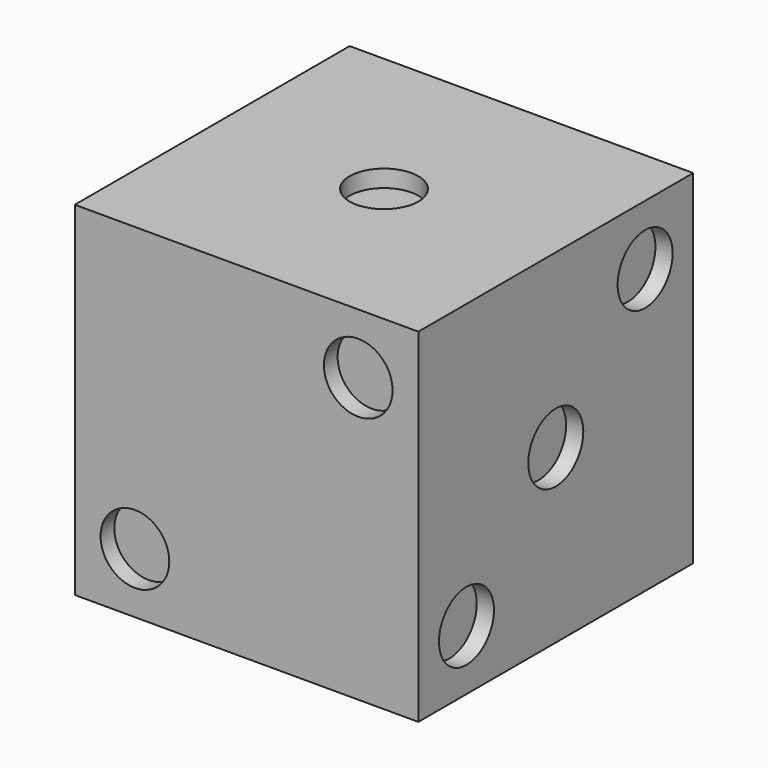
from build123d import *

# Parameters (mm, degrees)
F0_W      = 127
F0_H      = 127
F1_DEPTH  = 127
F2_R      = 12.7
F3_DEPTH  = 6.35
F4_R      = 12.7
F5_DEPTH  = 6.35
F6_R      = 12.7
F7_DEPTH  = 6.35
F8_R      = 12.7
F9_DEPTH  = 6.35
F10_R     = 12.7
F11_DEPTH = 6.35
F12_R     = 12.7
F13_DEPTH = 6.35


with BuildPart() as f1:
    # F0 (on Top) → F1 (new body)
    with BuildSketch(Plane.XY):
        with Locations((63.5, 63.5)):
            Rectangle(F0_W, F0_H)
    extrude(amount=F1_DEPTH)

    # F2 (on face) → F3 (cut)
    with BuildSketch(Plane.XY.offset(127)):
        with Locations((63.5, 63.5)):
            Circle(F2_R)
    extrude(amount=-F3_DEPTH, mode=Mode.SUBTRACT)

    # F4 (on face) → F5 (cut)
    with BuildSketch(Plane.XZ):
        with Locations((22.225, 22.225)):
            Circle(F4_R)
        with Locations((104.775, 104.775)):
            Circle(F4_R)
    extrude(amount=-F5_DEPTH, mode=Mode.SUBTRACT)

    # F6 (on face) → F7 (cut)
    with BuildSketch(Plane.YZ.offset(127)):
        with Locations((22.225, 22.225)):
            Circle(F6_R)
        with Locations((63.5, 63.5)):
            Circle(F6_R)
        with Locations((104.775, 104.775)):
            Circle(F6_R)
    extrude(amount=-F7_DEPTH, mode=Mode.SUBTRACT)

    # F8 (on face) → F9 (cut)
    with BuildSketch(Plane(origin=(0, 0, 0), x_dir=(0, -1, 0), z_dir=(-1, 0, 0))):
        with Locations((-104.775, 22.225)):
            Circle(F8_R)
        with Locations((-22.225, 22.225)):
            Circle(F8_R)
        with Locations((-22.225, 104.775)):
            Circle(F8_R)
        with Locations((-104.775, 104.775)):
            Circle(F8_R)
    extrude(amount=-F9_DEPTH, mode=Mode.SUBTRACT)

    # F10 (on face) → F11 (cut)
    with BuildSketch(Plane(origin=(0, 127, 0), x_dir=(-1, 0, 0), z_dir=(0, 1, 0))):
        with Locations((-104.775, 22.225)):
            Circle(F10_R)
        with Locations((-22.225, 22.225)):
            Circle(F10_R)
        with Locations((-22.225, 104.775)):
            Circle(F10_R)
        with Locations((-104.775, 104.775)):
            Circle(F10_R)
        with Locations((-63.5, 63.5)):
            Circle(F10_R)
    extrude(amount=-F11_DEPTH, mode=Mode.SUBTRACT)

    # F12 (on face) → F13 (cut)
    with BuildSketch(Plane(origin=(0, 0, 0), x_dir=(1, 0, 0), z_dir=(0, 0, -1))):
        with Locations((22.225, -63.5)):
            Circle(F12_R)
        with Locations((104.775, -104.775)):
            Circle(F12_R)
        with Locations((104.775, -63.5)):
            Circle(F12_R)
        with Locations((104.775, -22.225)):
            Circle(F12_R)
        with Locations((22.225, -104.775)):
            Circle(F12_R)
        with Locations((22.225, -22.225)):
            Circle(F12_R)
    extrude(amount=-F13_DEPTH, mode=Mode.SUBTRACT)


solid = f1.part
